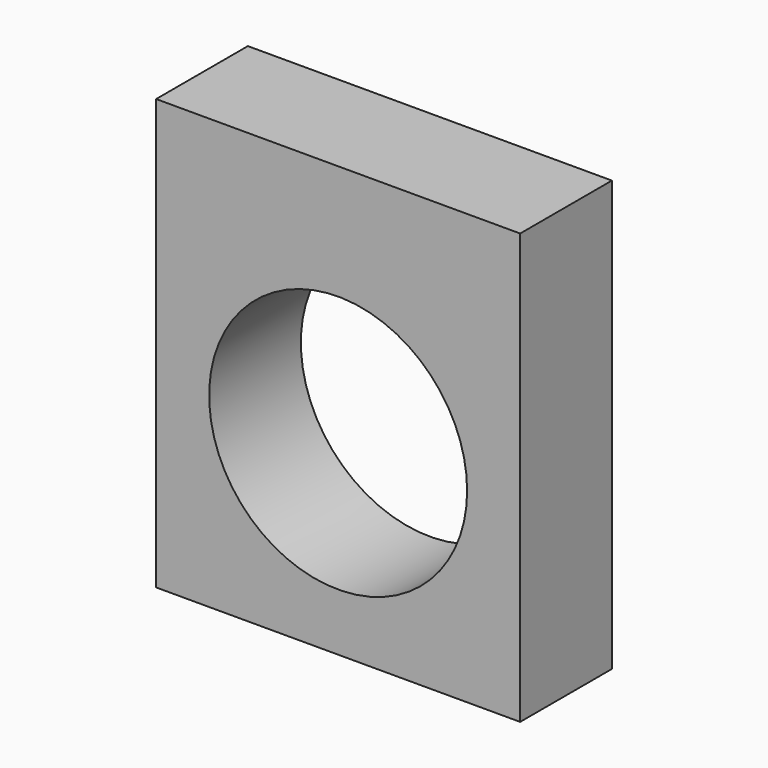
from build123d import *

# Parameters (mm, degrees)
F0_W     = 12.7
F0_H     = 15
F0_R     = 4.5
F1_DEPTH = 4
F2_D     = 1.75
F2_DEPTH = 2
F2_TIP   = 0.5257530416
F3_D     = 1.75
F3_DEPTH = 2
F3_TIP   = 0.5257530416


with BuildPart() as f1:
    # F0 (on Front) → F1 (new body)
    with BuildSketch(Plane.XZ):
        with Locations((0, 1)):
            Rectangle(F0_W, F0_H)
        Circle(F0_R, mode=Mode.SUBTRACT)
    extrude(amount=F1_DEPTH)

    # F2
    with Locations(Plane(origin=(0, 0, 0), x_dir=(1, 0, 0), z_dir=(0, 1, 0))):
        with Locations((-4.5, -4.5)):
            Hole(F2_D / 2, depth=F2_DEPTH)
            with Locations((0, 0, -(F2_DEPTH + F2_TIP / 2))):  # 118° drill point
                Cone(0, F2_D / 2, F2_TIP, mode=Mode.SUBTRACT)

    # F3
    with Locations(Plane(origin=(0, 0, 0), x_dir=(1, 0, 0), z_dir=(0, 1, 0))):
        with Locations((4.5, -4.5), (4.5, 4.5), (-4.5, 4.5)):
            Hole(F3_D / 2, depth=F3_DEPTH)
            with Locations((0, 0, -(F3_DEPTH + F3_TIP / 2))):  # 118° drill point
                Cone(0, F3_D / 2, F3_TIP, mode=Mode.SUBTRACT)


solid = f1.part
